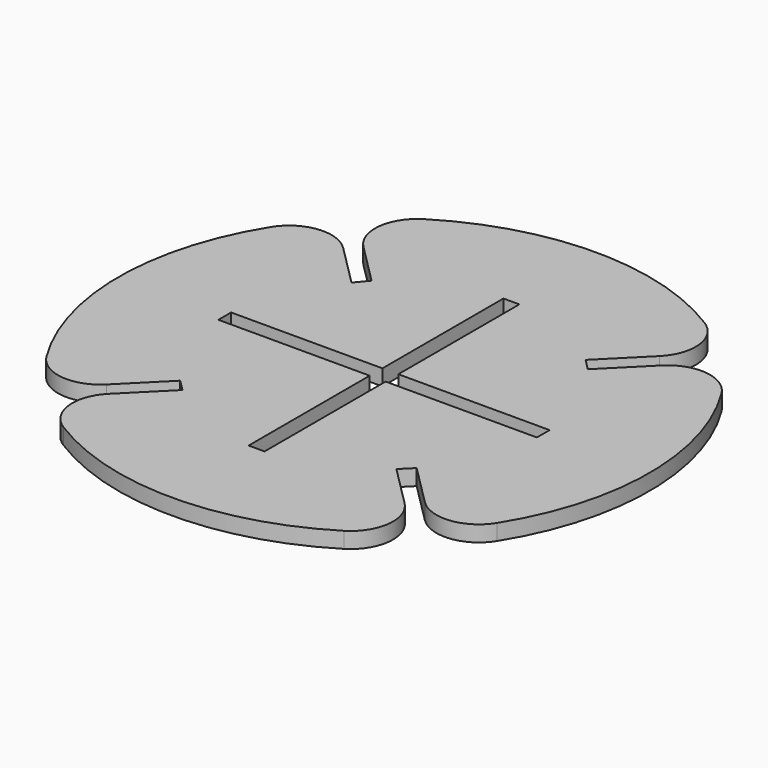
from build123d import *

# Parameters (mm, degrees)
F1_DEPTH = 3


with BuildPart() as f1:
    # F0 (on Top) → F1 (new body)
    with BuildSketch(Plane.XY):
        with BuildLine():
            ThreePointArc((-29.98936, 27.868279), (-36.55688, 30.159424), (-42.43597, 26.442172))
            ThreePointArc((-42.43597, 26.442172), (-50, 0), (-42.43597, -26.442172))
            ThreePointArc((-42.43597, -26.442172), (-36.55688, -30.159424), (-29.98936, -27.868279))
            Line((-29.98936, -27.868279), (-22.273744, -20.152663))
            Line((-22.273744, -20.152663), (-20.152663, -22.273744))
            Line((-20.152663, -22.273744), (-27.868279, -29.98936))
            ThreePointArc((-27.868279, -29.98936), (-30.159424, -36.55688), (-26.442172, -42.43597))
            ThreePointArc((-26.442172, -42.43597), (0, -50), (26.442172, -42.43597))
            ThreePointArc((26.442172, -42.43597), (30.159424, -36.55688), (27.868279, -29.98936))
            Line((27.868279, -29.98936), (20.152663, -22.273744))
            Line((20.152663, -22.273744), (22.273744, -20.152663))
            Line((22.273744, -20.152663), (29.98936, -27.868279))
            ThreePointArc((29.98936, -27.868279), (36.55688, -30.159424), (42.43597, -26.442172))
            ThreePointArc((42.43597, -26.442172), (50, 0), (42.43597, 26.442172))
            ThreePointArc((42.43597, 26.442172), (36.55688, 30.159424), (29.98936, 27.868279))
            Line((29.98936, 27.868279), (22.273744, 20.152663))
            Line((22.273744, 20.152663), (20.152663, 22.273744))
            Line((20.152663, 22.273744), (27.868279, 29.98936))
            ThreePointArc((27.868279, 29.98936), (30.159424, 36.55688), (26.442172, 42.43597))
            ThreePointArc((26.442172, 42.43597), (0, 50), (-26.442172, 42.43597))
            ThreePointArc((-26.442172, 42.43597), (-30.159424, 36.55688), (-27.868279, 29.98936))
            Line((-27.868279, 29.98936), (-20.189875, 22.310956))
            Line((-20.189875, 22.310956), (-22.110491, 19.989409))
            Line((-22.110491, 19.989409), (-29.98936, 27.868279))
        make_face()
        Polygon((-1.5, 30), (1.5, 30), (1.5, 3.621082), (1.5, 1.5), (3.621082, 1.5), (30, 1.5), (30, -1.5), (3.621082, -1.5), (1.5, -1.5), (1.5, -3.621082), (1.5, -30), (-1.5, -30), (-1.5, -3.621082), (-1.5, -1.5), (-3.621082, -1.5), (-30, -1.5), (-30, 1.5), (-3.621082, 1.5), (-1.5, 1.5), (-1.5, 3.621082), align=None, mode=Mode.SUBTRACT)
    extrude(amount=F1_DEPTH)


solid = f1.part
